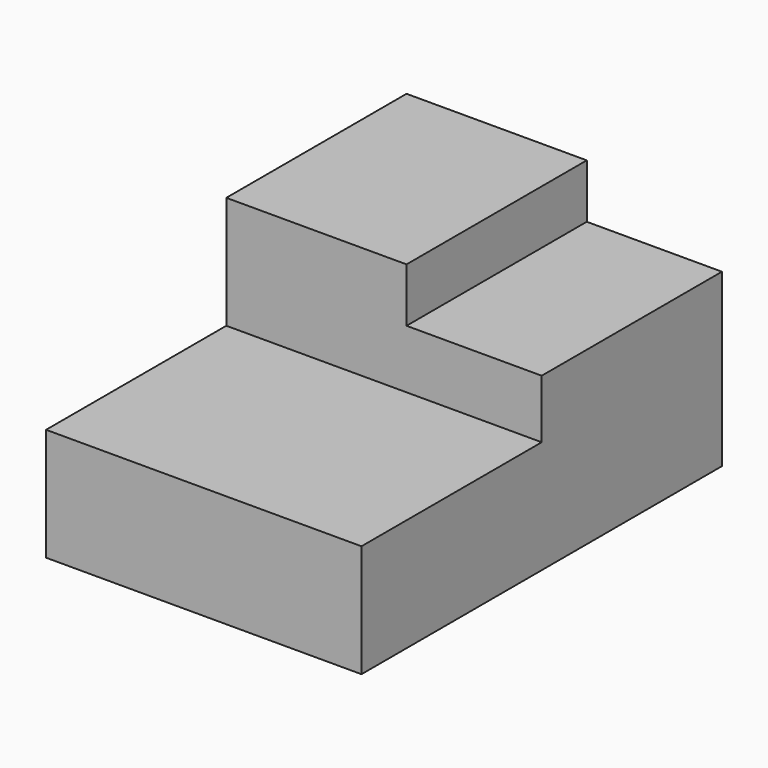
from build123d import *

# Parameters (mm, degrees)
F0_W     = 1016
F0_H     = 1270
F0_W_2   = 762
F1_DEPTH = 1270
F2_DEPTH = 304.8
F3_DEPTH = 635


with BuildPart() as f1:
    # F0 (on Top) → F1 (new body)
    with BuildSketch(Plane.XY):
        with Locations((365.9498976469, -561.0573461652)):
            Rectangle(F0_W, F0_H)
        with Locations((1254.9498976469, -561.0573461652)):
            Rectangle(F0_W_2, F0_H)
        Polygon((873.9498976469, -1196.0573461652), (-142.0501023531, -1196.0573461652), (-142.0501023531, -2466.0573461652), (1635.9498976469, -2466.0573461652), (1635.9498976469, -1196.0573461652), align=None)
    extrude(amount=-F1_DEPTH)

    # F0 (on Top) → F2 (cut)
    with BuildSketch(Plane.XY):
        with Locations((1254.9498976469, -561.0573461652)):
            Rectangle(F0_W_2, F0_H)
    extrude(amount=-F2_DEPTH, mode=Mode.SUBTRACT)

    # F0 (on Top) → F3 (cut)
    with BuildSketch(Plane.XY):
        Polygon((873.9498976469, -1196.0573461652), (-142.0501023531, -1196.0573461652), (-142.0501023531, -2466.0573461652), (1635.9498976469, -2466.0573461652), (1635.9498976469, -1196.0573461652), align=None)
    extrude(amount=-F3_DEPTH, mode=Mode.SUBTRACT)


solid = f1.part
